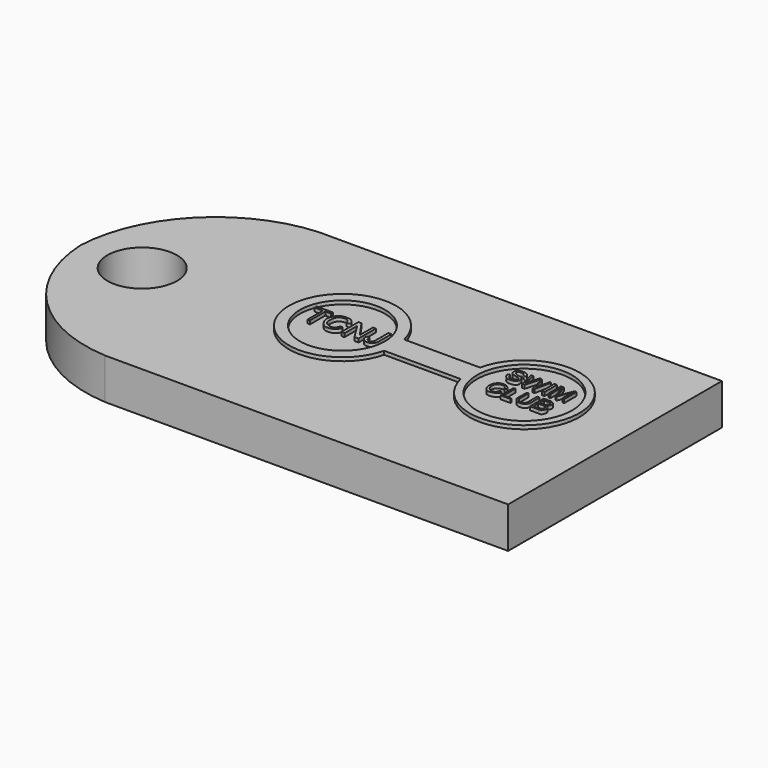
from build123d import *

# Parameters (mm, degrees)
F0_W     = 38.1
F0_H     = 19.05
F1_DEPTH = 3.175
F2_R     = 2.4828109925
F3_DEPTH = 3.176
F4_R     = 2.4828109925
F4_R_2   = 3.3973385268
F4_R_3   = 3.0356553695
F5_DEPTH = 0.254


with BuildPart() as f1:
    # F0 (on Top) → F1 (new body)
    with BuildSketch(Plane.XY):
        with Locations((-19.05, 9.525)):
            Rectangle(F0_W, F0_H)
    extrude(amount=F1_DEPTH)

    # F2 (on face) → F3 (cut, through all)
    with BuildSketch(Plane.XY.offset(3.175)):
        with BuildLine():
            ThreePointArc((-38.1, 9.525), (-35.2368913149, 16.0874822179), (-28.718682006, 19.05))
            Line((-28.718682006, 19.05), (-38.1, 19.05))
            Line((-38.1, 19.05), (-38.1, 9.525))
        make_face()
        with BuildLine():
            ThreePointArc((-28.718682006, 0), (-35.2368913149, 2.9625177821), (-38.1, 9.525))
            Line((-38.1, 9.525), (-38.1, 0))
            Line((-38.1, 0), (-28.718682006, 0))
        make_face()
        with Locations((-33.7038896978, 9.525)):
            Circle(F2_R)
    extrude(amount=-F3_DEPTH, mode=Mode.SUBTRACT)

    # F4 (on face) → F5 (cut)
    with BuildSketch(Plane.XY.offset(3.175)):
        with BuildLine():
            ThreePointArc((-28.718682006, 19.05), (-35.2368913149, 16.0874822179), (-38.1, 9.525))
            ThreePointArc((-38.1, 9.525), (-35.2368913149, 2.9625177821), (-28.718682006, 0))
            Line((-28.718682006, 0), (0, 0))
            Line((0, 0), (0, 19.05))
            Line((0, 19.05), (-28.718682006, 19.05))
        make_face()
        with Locations((-33.7038896978, 9.525)):
            Circle(F4_R, mode=Mode.SUBTRACT)
        with BuildLine():
            Line((-11.204509369, 9.7731091082), (-16.2556674331, 9.7731091082))
            Line((-16.2556674331, 9.7731091082), (-16.6581426853, 9.7731091082))
            ThreePointArc((-16.6581426853, 9.7731091082), (-24.1825202508, 10.7437230347), (-16.6363575836, 11.5271629766))
            Line((-16.6363575836, 11.5271629766), (-16.3941457868, 11.5271629766))
            Line((-16.3941457868, 11.5271629766), (-11.2256935624, 11.5271629766))
            ThreePointArc((-11.2256935624, 11.5271629766), (-3.4717256344, 10.7436549328), (-11.204509369, 9.7731091082))
        make_face(mode=Mode.SUBTRACT)
        with Locations((-7.3930802755, 10.6962956488)):
            Circle(F4_R_2)
        with BuildLine():
            add(Edge.make_bspline(
                [(-8.4561556578, 10.4526774958), (-8.4344821955, 10.5131812711), (-8.6159052615, 10.7046403164), (-8.9098232628, 10.8195179836), (-9.3586544368, 10.7286119848), (-9.574745931, 10.1187053668), (-9.2805338199, 9.538167958), (-8.8082365512, 9.5804816092), (-8.4556586549, 9.7438202932), (-8.396860102, 9.9863555926), (-8.6330082393, 10.0702183652), (-8.6519010809, 9.7333768373), (-9.0449295596, 9.7024764863), (-9.3441221135, 9.9584577723), (-9.3874655572, 10.524078357), (-8.9264365843, 10.6826697258), (-8.6368050913, 10.6049347389), (-8.6279642917, 10.3475627852), (-8.4719713543, 10.4085262966), (-8.4561556578, 10.4526774958)],
                knots=[0, 0, 0, 0, 0.0532483387, 0.113267174, 0.1785434515, 0.2577982567, 0.3354252403, 0.4027712128, 0.4668510982, 0.5116274353, 0.551372775, 0.6028604887, 0.6613225245, 0.7248177023, 0.7963036394, 0.8635278137, 0.9167089689, 0.9611432841, 1, 1, 1, 1], degree=3))
        make_face(mode=Mode.SUBTRACT)
        Polygon((-8.2311294973, 9.6275797114), (-8.2311294973, 10.7419975102), (-8.0918269232, 10.7741439715), (-8.0918269232, 9.7133042291), (-7.5239026919, 9.7133042291), (-7.5239026919, 9.6275797114), align=None, mode=Mode.SUBTRACT)
        with BuildLine():
            Line((-6.3773384318, 10.7741439715), (-6.3773384318, 10.6962956488))
            Line((-6.3773384318, 10.6962956488), (-6.3773384318, 9.9276155233))
            add(Edge.make_bspline(
                [(-6.3773384318, 9.9276155233), (-6.4090453416, 9.8087981466), (-6.480236508, 9.5420188336), (-7.1453746708, 9.5677405448), (-7.258420068, 9.8154754172), (-7.3095913976, 9.9276155233)],
                knots=[0, 0, 0, 0, 0.3053274615, 0.6855482984, 1, 1, 1, 1], degree=3))
            Line((-7.3095913976, 9.9276155233), (-7.2881602682, 10.7955755666))
            Line((-7.2881602682, 10.7955755666), (-7.1702892892, 10.7926651697))
            Line((-7.1702892892, 10.7926651697), (-7.1702892892, 9.9276155233))
            add(Edge.make_bspline(
                [(-7.1702892892, 9.9276155233), (-7.1284542088, 9.8465309767), (-7.0391238846, 9.6733913827), (-6.6129016247, 9.6843481722), (-6.5685332878, 9.8526930406), (-6.5487870015, 9.9276155233)],
                knots=[0, 0, 0, 0, 0.3283233699, 0.7010679257, 1, 1, 1, 1], degree=3))
            Line((-6.5487870015, 9.9276155233), (-6.5487870015, 10.7741439715))
            Line((-6.5487870015, 10.7741439715), (-6.3773384318, 10.7741439715))
        make_face(mode=Mode.SUBTRACT)
        with BuildLine():
            Line((-6.1201648787, 9.6168639138), (-6.1201648787, 10.6962956488))
            Line((-6.1201648787, 10.6962956488), (-6.1201648787, 10.8170062304))
            Line((-6.1201648787, 10.8170062304), (-5.577086471, 10.8170062304))
            add(Edge.make_bspline(
                [(-5.577086471, 10.8170062304), (-5.4622781191, 10.7638193061), (-5.2295052196, 10.6559832962), (-5.3677642589, 10.2445065322), (-5.5472345904, 10.2120818848), (-5.1332134299, 10.1753596302), (-5.270141809, 9.5907558618), (-5.4344035608, 9.6095224454), (-5.498662591, 9.6168639138)],
                knots=[0, 0, 0, 0, 0.1903840672, 0.3860019817, 0.4771127011, 0.6375520727, 0.8582107397, 1, 1, 1, 1], degree=3))
            Line((-5.498662591, 9.6168639138), (-6.1201648787, 9.6168639138))
        make_face(mode=Mode.SUBTRACT)
        with BuildLine():
            add(Edge.make_bspline(
                [(-8.5740266368, 12.2743221), (-8.5401050741, 12.3224331664), (-8.6783215627, 12.6387800293), (-9.184796294, 12.6548329665), (-9.4800471983, 12.4360053833), (-9.4419740945, 12.0798316165), (-9.1295950241, 11.9793082685), (-8.831367579, 11.9123580888), (-8.6427968335, 11.8238895712), (-8.7645291474, 11.5344085895), (-9.1140370755, 11.5542180365), (-9.3260330715, 11.6778761827), (-9.2954318773, 11.9042158216), (-9.5962395192, 11.8814661597), (-9.3559672194, 11.4482164997), (-8.9967184633, 11.3933195663), (-8.5558015163, 11.4768320471), (-8.5479985096, 11.8327800081), (-8.6951902579, 12.1024272986), (-9.0540613983, 12.0793081599), (-9.2629319892, 12.2276324709), (-9.3267172394, 12.4649328799), (-8.8420264537, 12.5231376903), (-8.7560312169, 12.2648192132), (-8.5972865041, 12.2413325519), (-8.5740266368, 12.2743221)],
                knots=[0, 0, 0, 0, 0.0453790473, 0.1028040475, 0.1504811039, 0.1945666876, 0.2403101145, 0.2875747753, 0.3209496051, 0.3604616335, 0.4077131796, 0.4470225316, 0.4812881885, 0.5136946038, 0.5632768855, 0.6145773714, 0.6660910242, 0.7111117469, 0.7544039284, 0.8020681877, 0.8434151076, 0.8768269994, 0.927247352, 0.9688837855, 1, 1, 1, 1], degree=3))
        make_face(mode=Mode.SUBTRACT)
        Polygon((-7.8090997019, 12.6045872655), (-7.6965680346, 12.5722642988), (-7.6278613442, 12.5489299599), (-7.3010693838, 11.5974660136), (-7.0933157741, 12.5945020797), (-6.9865938276, 12.5722642988), (-7.2293586095, 11.4072051531), (-7.363169454, 11.3742146641), (-7.6278613442, 12.4478163728), (-7.6953512616, 12.4672017992), (-7.9846717417, 11.4599391818), (-8.1668356434, 11.4599391818), (-8.4240091965, 12.5850727782), (-8.2739917561, 12.5850727782), (-8.2739917561, 12.5200599432), (-8.0941422122, 11.612218302), align=None, mode=Mode.SUBTRACT)
        Polygon((-6.5702181309, 12.5722642988), (-6.5702181309, 11.4599391818), (-6.7630982958, 11.4599391818), (-6.7630982958, 12.5850727782), align=None, mode=Mode.SUBTRACT)
        Polygon((-6.1533457451, 11.4599391818), (-6.2916139141, 11.4599391818), (-6.2916139141, 12.5722642988), (-6.0880184174, 12.5722642988), (-5.7344050147, 11.5992417559), (-5.3265071474, 12.5722642988), (-5.1879114471, 12.5850727782), (-5.1879114471, 11.4599391818), (-5.3265071474, 11.4888185353), (-5.3265071474, 12.4672017992), (-5.7022585534, 11.4599391818), (-5.7942554325, 11.4791086827), (-6.1533457451, 12.4672017992), align=None, mode=Mode.SUBTRACT)
        with Locations((-20.3638467938, 10.6962956488)):
            Circle(F4_R_3)
        Polygon((-22.3368285224, 10.0579196587), (-22.3368285224, 11.4144319668), (-22.9246504605, 11.4144319668), (-22.9246504605, 11.5953003988), (-21.7490065843, 11.5953003988), (-21.7490065843, 11.4144319668), (-22.165004164, 11.4144319668), (-22.165004164, 10.0579196587), align=None, mode=Mode.SUBTRACT)
        with BuildLine():
            add(Edge.make_bspline(
                [(-20.1857835054, 11.154637672), (-20.1383999259, 11.2274152197), (-20.3829405313, 11.5457368967), (-20.6342772805, 11.598445001), (-21.0338008973, 11.6033106802), (-21.3419507458, 11.4407849932), (-21.6690667935, 10.8714835234), (-21.4236479789, 10.2762233569), (-21.0513889722, 9.9385606622), (-20.5169842312, 10.0010364298), (-20.3022849329, 10.2346080768), (-20.0935529686, 10.5076427388), (-20.4542795834, 10.6178192925), (-20.4380739541, 10.1568095491), (-21.0016529566, 10.1732881394), (-21.3412121983, 10.4615670014), (-21.3344036941, 10.8906002083), (-21.2656345796, 11.2749928339), (-20.8158403075, 11.5352908662), (-20.428962716, 11.3142068841), (-20.4926924052, 11.1040132427), (-20.2235079909, 11.0966957528), (-20.1857835054, 11.154637672)],
                knots=[0, 0, 0, 0, 0.0513054787, 0.0956974598, 0.1461415157, 0.1942748513, 0.2581448225, 0.3224312905, 0.3794034791, 0.4364585944, 0.4844359856, 0.5259974197, 0.5628941445, 0.6093371792, 0.6648394213, 0.7183478226, 0.7706084866, 0.8213935407, 0.8774060244, 0.9271153733, 0.9591530905, 1, 1, 1, 1], degree=3))
        make_face(mode=Mode.SUBTRACT)
        Polygon((-19.6997895837, 10.0419670343), (-19.929997623, 10.0579196587), (-19.929997623, 11.5766851231), (-19.7125785053, 11.5766851231), (-18.8940633088, 10.4000680149), (-18.8940633088, 11.5766851231), (-18.6894331127, 11.5766851231), (-18.6894331127, 10.0419670343), (-18.9835876226, 10.0419670343), (-19.6997895837, 11.1674275249), align=None, mode=Mode.SUBTRACT)
        with BuildLine():
            Line((-17.589552328, 11.5894749761), (-17.589552328, 11.487159878))
            Line((-17.589552328, 11.487159878), (-17.589552328, 10.3744892403))
            add(Edge.make_bspline(
                [(-17.806969583, 10.3744892403), (-17.8318558411, 10.3003918473), (-17.8864489425, 10.1378440474), (-18.3385288849, 10.2040992572), (-18.1812855735, 10.5182028777), (-18.5826669281, 10.5557536384), (-18.4155770482, 10.0550453731), (-18.0308547555, 9.9537773156), (-17.6795258923, 10.070041505), (-17.619054133, 10.2746626102), (-17.589552328, 10.3744892403)],
                knots=[0, 0, 0, 0, 0.1092025201, 0.2395580825, 0.3484827985, 0.4538953578, 0.5953349525, 0.7397365792, 0.8730276614, 1, 1, 1, 1], degree=3))
            Line((-17.806969583, 10.3744892403), (-17.806969583, 11.5894749761))
            Line((-17.806969583, 11.5894749761), (-17.589552328, 11.5894749761))
        make_face(mode=Mode.SUBTRACT)
        with BuildLine():
            Line((-5.9947180562, 10.1604396477), (-5.9594316408, 9.7347348928))
            Line((-5.9594316408, 9.7347348928), (-5.5234750036, 9.686926615))
            add(Edge.make_bspline(
                [(-5.577086471, 10.1604396477), (-5.4947674906, 10.1405781416), (-5.3197424976, 10.098348999), (-5.3898233796, 9.7815677736), (-5.4865108779, 9.7080351973), (-5.5234750036, 9.686926615)],
                knots=[0, 0, 0, 0, 0.3268123342, 0.6948619404, 0.9017848331, 0.9017848331, 0.9017848331, 0.9017848331], degree=3))
            Line((-5.577086471, 10.1604396477), (-5.9947180562, 10.1604396477))
        make_face()
        with BuildLine():
            Line((-5.4772314616, 10.6562729925), (-5.9701469727, 10.6562729925))
            Line((-5.9701469727, 10.6562729925), (-5.9701469727, 10.2705126628))
            Line((-5.9701469727, 10.2705126628), (-5.577086471, 10.2705126628))
            add(Edge.make_bspline(
                [(-5.4772314616, 10.6562729925), (-5.4643446002, 10.6041130472), (-5.4353366378, 10.486702477), (-5.5264502908, 10.3477404531), (-5.577086471, 10.2705126628)],
                knots=[0, 0, 0, 0, 0.4442525507, 1, 1, 1, 1], degree=3))
        make_face()
    extrude(amount=-F5_DEPTH, mode=Mode.SUBTRACT)


solid = f1.part
